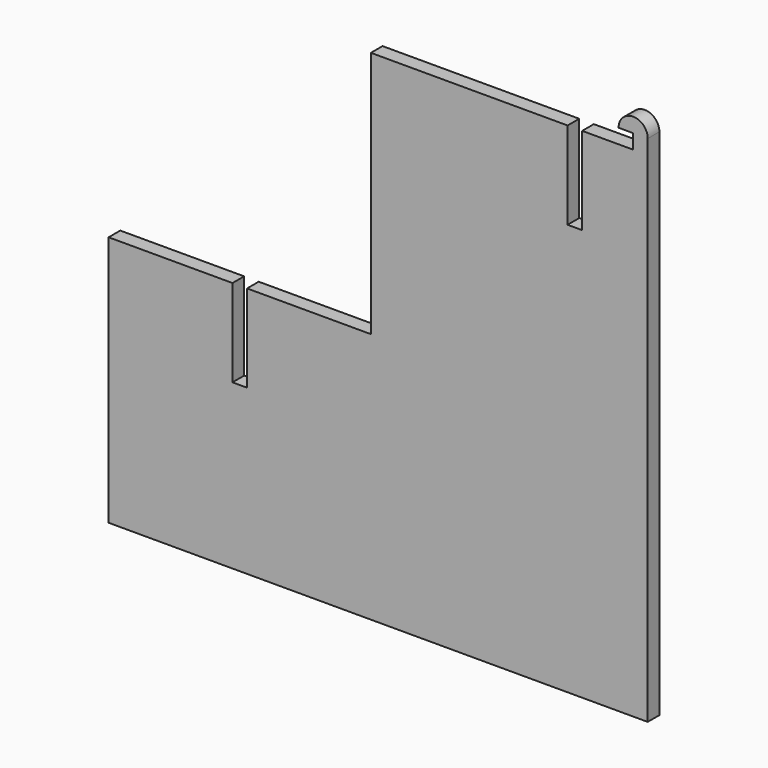
from build123d import *

# Parameters (mm, degrees)
F0_W     = 25.4
F0_H     = 25.4
F1_DEPTH = 12.7


with BuildPart() as f1:
    # F0 (on Front) → F1 (new body, symmetric)
    with BuildSketch(Plane.XZ):
        with BuildLine():
            Line((914.4, 895.35), (939.8, 895.35))
            ThreePointArc((939.8, 895.35), (914.4, 920.75), (889, 895.35))
            Line((889, 895.35), (914.4, 895.35))
        make_face()
        with Locations((927.1, 882.65)):
            Rectangle(F0_W, F0_H)
        Polygon((0, 438.15), (0, 0), (939.8, 0), (939.8, 869.95), (914.4, 869.95), (825.5, 869.95), (825.5, 717.55), (800.1, 717.55), (800.1, 869.95), (457.2, 869.95), (457.2, 438.15), (241.3, 438.15), (241.3, 285.75), (215.9, 285.75), (215.9, 438.15), align=None)
    extrude(amount=F1_DEPTH, both=True)


solid = f1.part
